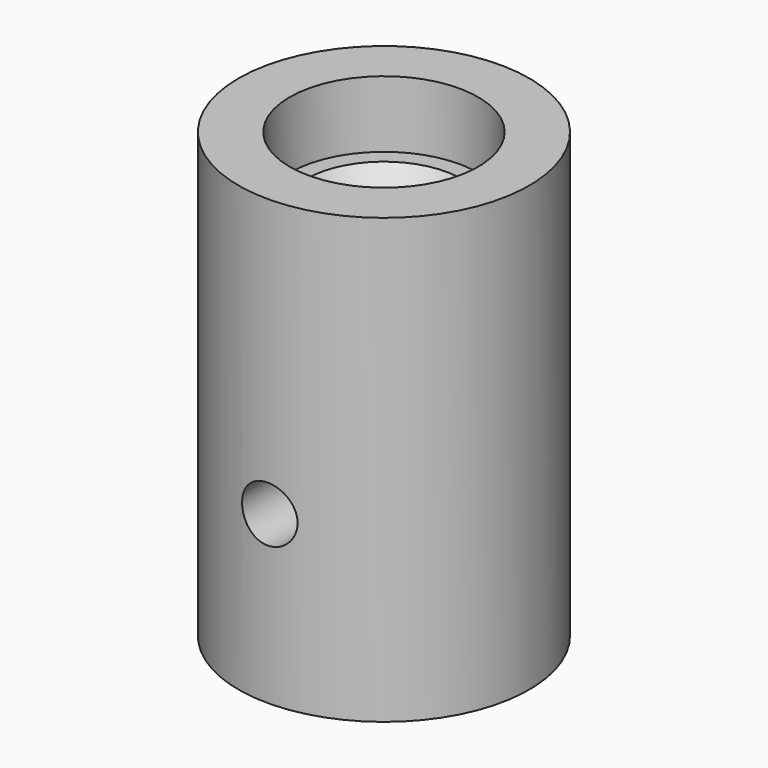
from build123d import *

# Parameters (mm, degrees)
F2_R     = 1.25
F3_DEPTH = 12.6


with BuildPart() as f1:
    # F0 (on Front) → F1 (revolve)
    with BuildSketch(Plane.XZ):
        Polygon((-2, 15), (-3.5, 17), (-4.25, 17), (-4.25, 20), (-6.55, 20), (-6.55, 0), (-3, 0), (-3, 2), (-2, 2), align=None)
    revolve(axis=Axis((0, 0, 17.224411), (0, 0, 1)))

    # F2 (on Front) → F3 (cut)
    with BuildSketch(Plane.XZ):
        with Locations((0, 7.5)):
            Circle(F2_R)
    extrude(amount=F3_DEPTH, mode=Mode.SUBTRACT)


solid = f1.part
